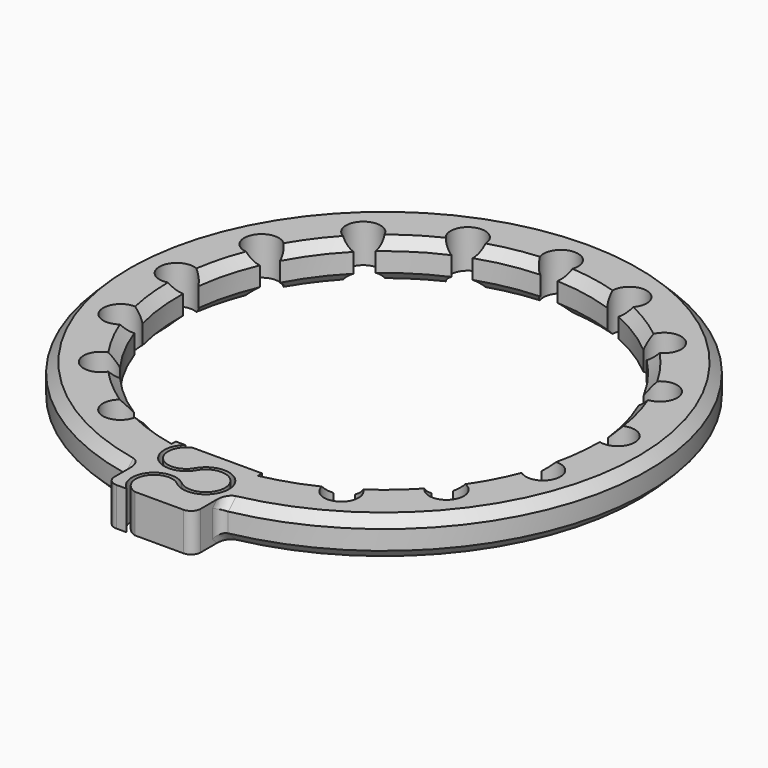
from build123d import *

# Parameters (mm, degrees)
SKETCH_R              = 27.5
SKETCH_R_2            = 21.5
PAD_DEPTH             = 4
CHAMFER_SIZE          = 1
CHAMFER001_SIZE       = 1
CHAMFER002_SIZE       = 1
CHAMFER003_SIZE       = 1
POCKET_DEPTH          = 159.77006
POLARPATTERN_COUNT    = 8
POLARPATTERN_ANGLE    = 150
POLARPATTERN001_COUNT = 8
POLARPATTERN001_ANGLE = 150
SKETCH002_W           = 9
SKETCH002_H           = 9
PAD001_DEPTH          = 4
POCKET001_DEPTH       = 4.001
FILLET_R              = 1
FILLET001_R           = 1
FILLET002_R           = 1


with BuildPart() as part:
    # Sketch → Pad (new body)
    with BuildSketch(Plane.XY):
        Circle(SKETCH_R)
        Circle(SKETCH_R_2, mode=Mode.SUBTRACT)
    extrude(amount=PAD_DEPTH)

    # Chamfer
    chamfer_edges = [part.edges().sort_by_distance(p)[0] for p in [
        (-27.5, 0, 4),
    ]]
    chamfer(chamfer_edges, length=CHAMFER_SIZE)

    # Chamfer001
    chamfer001_edges = [part.edges().sort_by_distance(p)[0] for p in [
        (-21.5, 0, 4),
    ]]
    chamfer(chamfer001_edges, length=CHAMFER001_SIZE)

    # Chamfer002
    chamfer002_edges = [part.edges().sort_by_distance(p)[0] for p in [
        (-21.5, 0, 0),
    ]]
    chamfer(chamfer002_edges, length=CHAMFER002_SIZE)

    # Chamfer003
    chamfer003_edges = [part.edges().sort_by_distance(p)[0] for p in [
        (-27.5, 0, 0),
    ]]
    chamfer(chamfer003_edges, length=CHAMFER003_SIZE)

    # Sketch001 → Pocket (cut, through all)
    with BuildSketch(Plane.XY):
        with BuildLine():
            Line((0, 0), (0.9, 21.481155))
            ThreePointArc((0.9, 21.481155), (0, 24.84), (-0.9, 21.481155))
            Line((-0.9, 21.481155), (0, 0))
        make_face()
    pocket = extrude(amount=POCKET_DEPTH, mode=Mode.SUBTRACT)

    # PolarPattern: Pocket ×8 about axis
    polarpattern_axis = Axis((0, 0, 0), (0, 0, 1))
    for i in range(1, POLARPATTERN_COUNT):
        add(pocket.rotate(polarpattern_axis, i * POLARPATTERN_ANGLE / (POLARPATTERN_COUNT - 1)), mode=Mode.SUBTRACT)

    # PolarPattern001: Pocket ×8 about axis
    polarpattern001_axis = Axis((0, 0, 0), (0, 0, -1))
    for i in range(1, POLARPATTERN001_COUNT):
        add(pocket.rotate(polarpattern001_axis, i * POLARPATTERN001_ANGLE / (POLARPATTERN001_COUNT - 1)), mode=Mode.SUBTRACT)

    # Sketch002 → Pad001 (join)
    with BuildSketch(Plane.XY):
        with Locations((0, -26)):
            Rectangle(SKETCH002_W, SKETCH002_H)
    extrude(amount=PAD001_DEPTH)

    # Sketch003 → Pocket001 (cut, through all)
    with BuildSketch(Plane.XY):
        with BuildLine():
            ThreePointArc((-1.998087, -20.948833), (-3.986835, -24.404203), (-5.2e-05, -24.388069))
            ThreePointArc((0.452661, -26.911525), (3.705941, -25.025543), (-5.2e-05, -24.388069))
            ThreePointArc((0.452661, -26.911525), (-3.186268, -27.888228), (-1.024753, -30.974263))
            Line((-1.024753, -30.574263), (-1.024753, -30.974263))
            ThreePointArc((0.19572, -27.218088), (-2.810353, -28.02493), (-1.024753, -30.574263))
            ThreePointArc((0.19572, -27.218088), (4.099655, -24.954909), (-0.347536, -24.189941))
            ThreePointArc((-1.998087, -21.348833), (-3.640966, -24.203269), (-0.347536, -24.189941))
            Line((-1.998087, -20.948833), (-1.998087, -21.348833))
        make_face()
    extrude(amount=POCKET001_DEPTH, mode=Mode.SUBTRACT)

    # Fillet
    fillet_edges = [part.edges().sort_by_distance(p)[0] for p in [
        (-4.5, -30.5, 2),
        (4.5, -30.5, 2),
    ]]
    fillet(fillet_edges, radius=FILLET_R)

    # Fillet001
    fillet001_edges = [part.edges().sort_by_distance(p)[0] for p in [
        (-4.5, -26.622291, 3.500067),
        (-4.5, -27.12932, 2),
        (-4.5, -26.622291, 0.499933),
    ]]
    fillet(fillet001_edges, radius=FILLET001_R)

    # Fillet002
    fillet002_edges = [part.edges().sort_by_distance(p)[0] for p in [
        (4.5, -26.622291, 0.499933),
        (4.5, -27.12932, 2),
        (4.5, -26.622291, 3.500067),
    ]]
    fillet(fillet002_edges, radius=FILLET002_R)


solid = part.part
